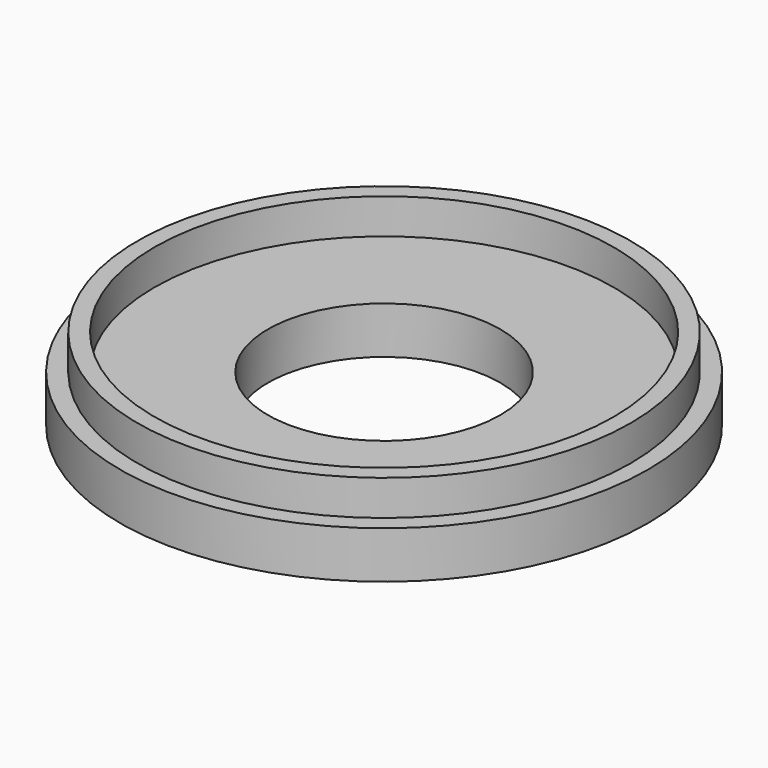
from build123d import *

# Parameters (mm, degrees)
F0_R     = 22.41
F0_R_2   = 20.94
F0_R_3   = 19.5
F0_R_4   = 9.87
F1_DEPTH = 4
F2_DEPTH = 7


with BuildPart() as f1:
    # F0 (on Top) → F1 (new body)
    with BuildSketch(Plane.XY):
        Circle(F0_R)
        Circle(F0_R_2, mode=Mode.SUBTRACT)
        Circle(F0_R_2)
        Circle(F0_R_3, mode=Mode.SUBTRACT)
        Circle(F0_R_3)
        Circle(F0_R_4, mode=Mode.SUBTRACT)
    extrude(amount=F1_DEPTH)

    # F0 (on Top) → F2 (join)
    with BuildSketch(Plane.XY):
        Circle(F0_R_2)
        Circle(F0_R_3, mode=Mode.SUBTRACT)
    extrude(amount=F2_DEPTH)


solid = f1.part
